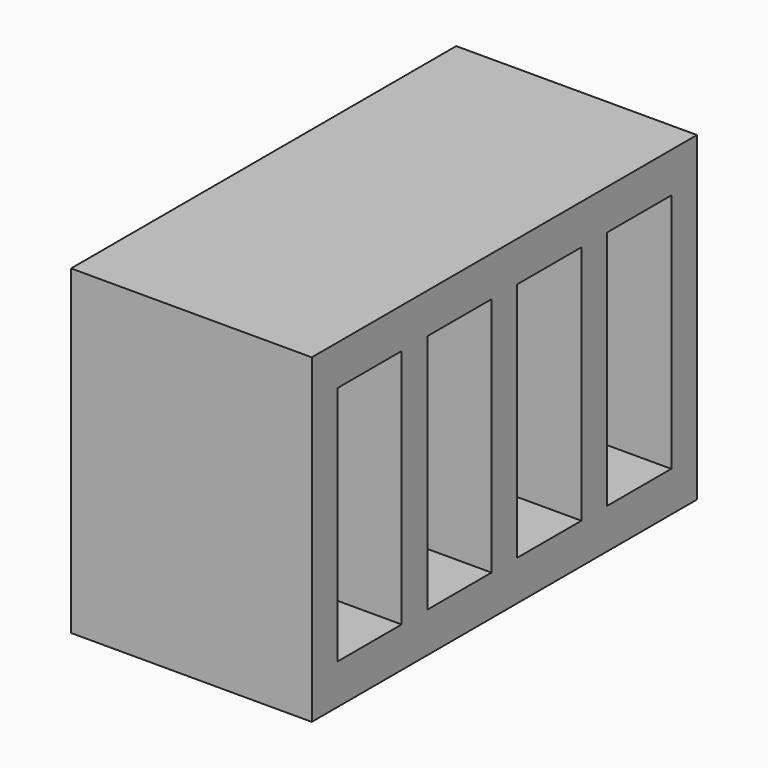
from build123d import *

# Parameters (mm, degrees)
F0_W     = 76.2
F0_H     = 152.4
F1_DEPTH = 101.6
F2_W     = 25.4
F2_H     = 76.2
F3_DEPTH = 50.8


with BuildPart() as f1:
    # F0 (on Top) → F1 (new body)
    with BuildSketch(Plane.XY):
        with Locations((0.829596, 34.125201)):
            Rectangle(F0_W, F0_H)
    extrude(amount=F1_DEPTH)

    # F2 (on face) → F3 (cut)
    with BuildSketch(Plane.YZ.offset(38.929596)):
        with Locations((87.465201, 50.8)):
            Rectangle(F2_W, F2_H)
        with Locations((51.905201, 50.8)):
            Rectangle(F2_W, F2_H)
        with Locations((16.345201, 50.8)):
            Rectangle(F2_W, F2_H)
        with Locations((-19.214799, 50.8)):
            Rectangle(F2_W, F2_H)
    extrude(amount=-F3_DEPTH, mode=Mode.SUBTRACT)


solid = f1.part
